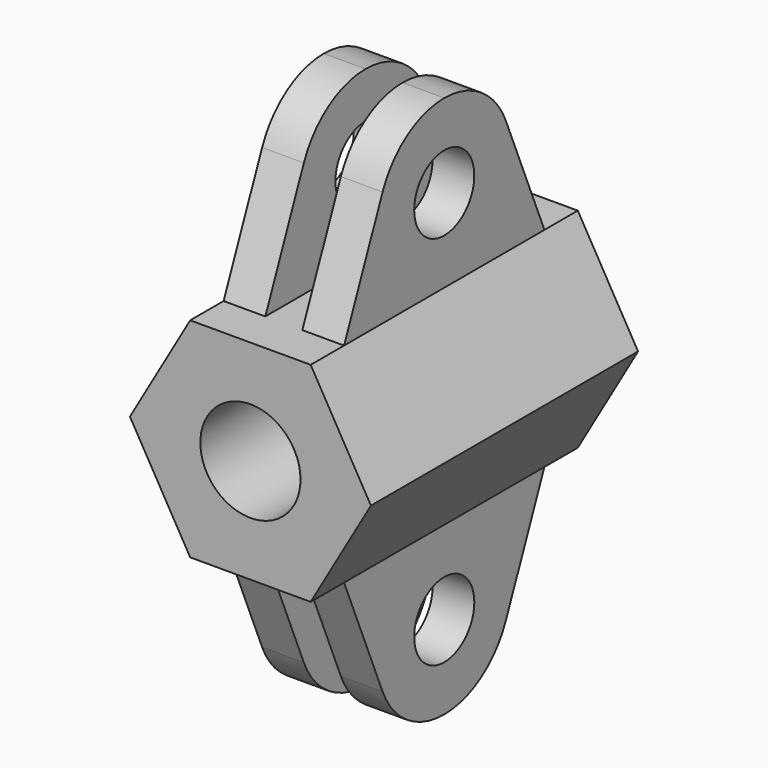
from build123d import *

# Parameters (mm, degrees)
F0_R      = 6
F1_DEPTH  = 20
F2_W      = 14.4337567297
F2_H      = 30
F3_DEPTH  = 20
F4_R      = 4.5
F5_DEPTH  = 21.6516350946
F7_DEPTH  = 25.4
F8_W      = 4.4337567297
F8_H      = 40
F9_DEPTH  = 25.4
F10_W     = 14.4337567297
F10_H     = 30
F11_DEPTH = 20
F12_R     = 4.5
F13_DEPTH = 25.4
F15_DEPTH = 25.4
F16_W     = 4.4337567297
F16_H     = 40
F17_DEPTH = 25.4


with BuildPart() as f1:
    # F0 (on Front) → F1 (new body, symmetric)
    with BuildSketch(Plane.XZ):
        Polygon((7.2168783649, 12.5), (-7.2168783649, 12.5), (-14.4337567297, 0), (-7.2168783649, -12.5), (7.2168783649, -12.5), (14.4337567297, 0), align=None)
        Circle(F0_R, mode=Mode.SUBTRACT)
    extrude(amount=F1_DEPTH, both=True)

    # F2 (on face) → F3 (join)
    with BuildSketch(Plane.XY.offset(12.5)):
        Rectangle(F2_W, F2_H)
    extrude(amount=F3_DEPTH)

    # F4 (on face) → F5 (cut, through all)
    with BuildSketch(Plane(origin=(-7.2168783649, 0, 0), x_dir=(0, -1, 0), z_dir=(-1, 0, 0))):
        with Locations((0, 22.5)):
            Circle(F4_R)
    extrude(amount=-F5_DEPTH, mode=Mode.SUBTRACT)

    # F6 (on face) → F7 (cut)
    with BuildSketch(Plane(origin=(-7.2168783649, 0, 0), x_dir=(0, -1, 0), z_dir=(-1, 0, 0))):
        with BuildLine():
            Line((-15, 32.5), (-15, 12.5))
            Line((-15, 12.5), (-9.2307692308, 26.3461538462))
            ThreePointArc((-9.2307692308, 26.3461538462), (-5.5470019623, 30.8205029434), (0, 32.5))
            Line((0, 32.5), (-15, 32.5))
        make_face()
        with BuildLine():
            Line((9.2307692308, 26.3461538462), (15, 12.5))
            Line((15, 12.5), (15, 32.5))
            Line((15, 32.5), (0, 32.5))
            ThreePointArc((0, 32.5), (5.5470019623, 30.8205029434), (9.2307692308, 26.3461538462))
        make_face()
    extrude(amount=-F7_DEPTH, mode=Mode.SUBTRACT)

    # F8 (on face) → F9 (cut)
    with BuildSketch(Plane.XY.offset(12.5)):
        Rectangle(F8_W, F8_H)
    extrude(amount=F9_DEPTH, mode=Mode.SUBTRACT)

    # F10 (on face) → F11 (join)
    with BuildSketch(Plane(origin=(0, 0, -12.5), x_dir=(1, 0, 0), z_dir=(0, 0, -1))):
        Rectangle(F10_W, F10_H)
    extrude(amount=F11_DEPTH)

    # F12 (on face) → F13 (cut)
    with BuildSketch(Plane.YZ.offset(7.2168783649)):
        with Locations((0, -22.5)):
            Circle(F12_R)
    extrude(amount=-F13_DEPTH, mode=Mode.SUBTRACT)

    # F14 (on face) → F15 (cut)
    with BuildSketch(Plane.YZ.offset(7.2168783649)):
        with BuildLine():
            Line((15, -32.5), (15, -12.5))
            Line((15, -12.5), (9.2307692308, -26.3461538462))
            ThreePointArc((9.2307692308, -26.3461538462), (5.5470019443, -30.8205029554), (-4.32e-08, -32.5))
            Line((-4.32e-08, -32.5), (15, -32.5))
        make_face()
        with BuildLine():
            Line((-9.2307692308, -26.3461538462), (-15, -12.5))
            Line((-15, -12.5), (-15, -32.5))
            Line((-15, -32.5), (-4.32e-08, -32.5))
            ThreePointArc((-4.32e-08, -32.5), (-5.5470019802, -30.8205029314), (-9.2307692308, -26.3461538462))
        make_face()
    extrude(amount=-F15_DEPTH, mode=Mode.SUBTRACT)

    # F16 (on face) → F17 (cut)
    with BuildSketch(Plane(origin=(0, 0, -12.5), x_dir=(1, 0, 0), z_dir=(0, 0, -1))):
        Rectangle(F16_W, F16_H)
    extrude(amount=F17_DEPTH, mode=Mode.SUBTRACT)


solid = f1.part
